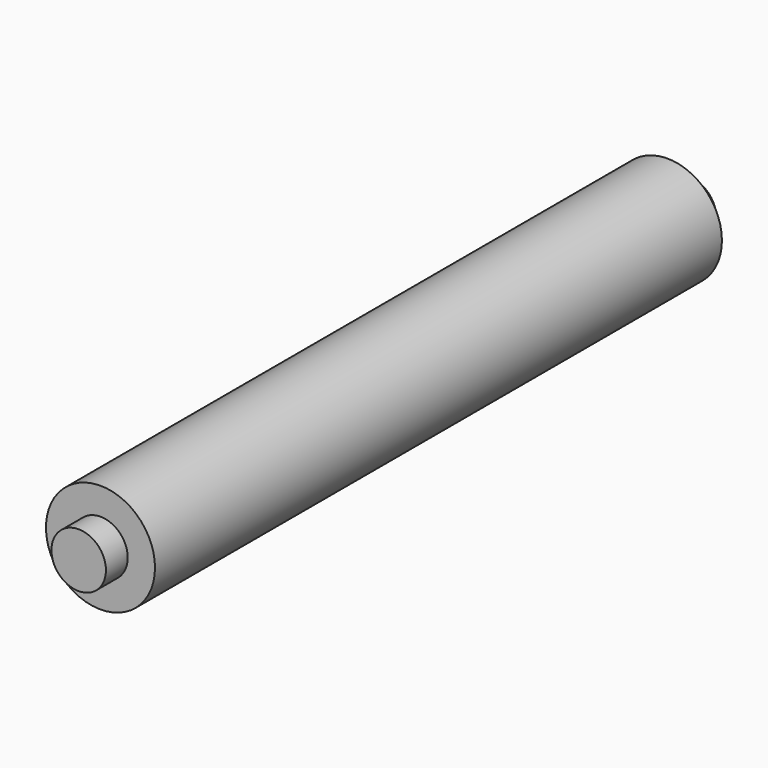
from build123d import *

# Parameters (mm, degrees)
F0_R          = 5
F1_DEPTH      = 65
F2_R          = 2.5
F3_DEPTH      = 2.5
F3_DEPTH_BACK = 67.5


with BuildPart() as f1:
    # F0 (on Front) → F1 (new body)
    with BuildSketch(Plane.XZ):
        Circle(F0_R)
    extrude(amount=F1_DEPTH)

    # F2 (on face) → F3 (join, two sides)
    with BuildSketch(Plane.XZ.offset(65)) as f3_sk:
        Circle(F2_R)
    extrude(amount=F3_DEPTH)
    extrude(f3_sk.sketch, amount=-F3_DEPTH_BACK)


solid = f1.part
